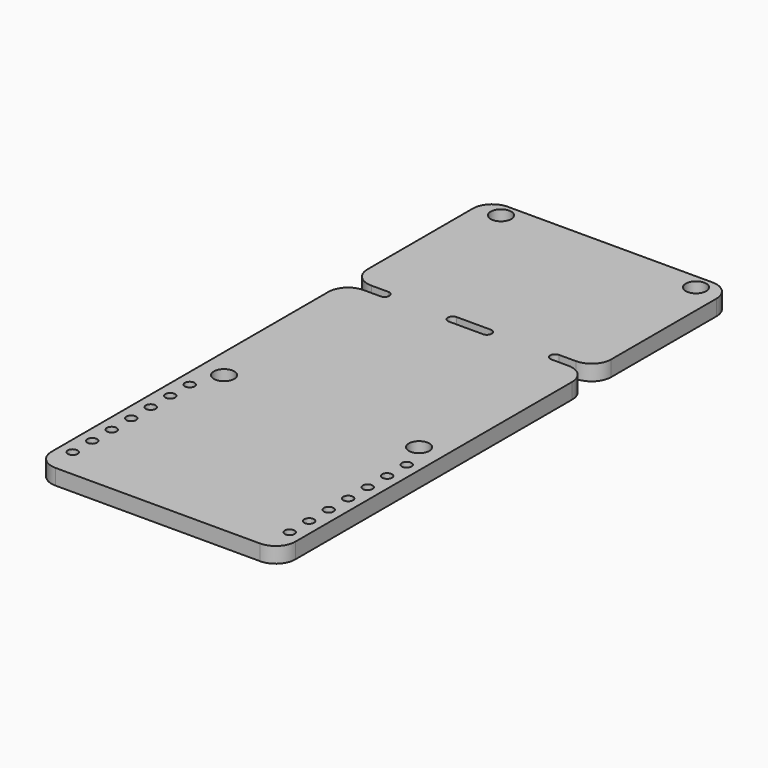
from build123d import *

# Parameters (mm, degrees)
PAD_DEPTH       = 1.6
SKETCH001_R     = 0.5
POCKET_DEPTH    = 1.601
SKETCH002_R     = 1.05
POCKET001_DEPTH = 1.601
POCKET002_DEPTH = 1.601


with BuildPart() as part:
    # Sketch → Pad (new body)
    with BuildSketch(Plane.XY):
        with BuildLine():
            Line((-10.5, 0), (10.5, 0))
            ThreePointArc((10.5, 0), (11.914214, 0.585786), (12.5, 2))
            Line((12.5, 2), (12.5, 56))
            ThreePointArc((12.5, 56), (11.914214, 57.414214), (10.5, 58))
            Line((10.5, 58), (-10.5, 58))
            ThreePointArc((-10.5, 58), (-11.914214, 57.414214), (-12.5, 56))
            Line((-12.5, 56), (-12.5, 2))
            ThreePointArc((-12.5, 2), (-11.914214, 0.585786), (-10.5, 0))
        make_face()
    extrude(amount=-PAD_DEPTH)

    # Sketch001 → Pocket (cut, through all)
    with BuildSketch(Plane.XY):
        with Locations((-11.125, 3)):
            Circle(SKETCH001_R)
        with Locations((11.125, 3)):
            Circle(SKETCH001_R)
        with Locations((-11.125, 5.5)):
            Circle(SKETCH001_R)
        with Locations((-11.125, 8)):
            Circle(SKETCH001_R)
        with Locations((-11.125, 10.5)):
            Circle(SKETCH001_R)
        with Locations((-11.125, 13)):
            Circle(SKETCH001_R)
        with Locations((-11.125, 15.5)):
            Circle(SKETCH001_R)
        with Locations((-11.125, 18)):
            Circle(SKETCH001_R)
        with Locations((11.125, 18)):
            Circle(SKETCH001_R)
        with Locations((11.125, 15.5)):
            Circle(SKETCH001_R)
        with Locations((11.125, 13)):
            Circle(SKETCH001_R)
        with Locations((11.125, 10.5)):
            Circle(SKETCH001_R)
        with Locations((11.125, 8)):
            Circle(SKETCH001_R)
        with Locations((11.125, 5.5)):
            Circle(SKETCH001_R)
    extrude(amount=-POCKET_DEPTH, mode=Mode.SUBTRACT)

    # Sketch002 → Pocket001 (cut, through all)
    with BuildSketch(Plane.XY):
        with Locations((-10, 21)):
            Circle(SKETCH002_R)
        with Locations((10, 21)):
            Circle(SKETCH002_R)
        with Locations((10, 56.5)):
            Circle(SKETCH002_R)
        with Locations((-10, 56.5)):
            Circle(SKETCH002_R)
    extrude(amount=-POCKET001_DEPTH, mode=Mode.SUBTRACT)

    # Sketch003 → Pocket002 (cut, through all)
    with BuildSketch(Plane.XY):
        with BuildLine():
            ThreePointArc((-1.75, 40.500236), (-2.250118, 40.000118), (-1.75, 39.5))
            Line((-1.75, 39.5), (1.75, 39.5))
            ThreePointArc((1.75, 39.5), (2.250118, 40.000118), (1.75, 40.500236))
            Line((-1.75, 40.500236), (1.75, 40.500236))
        make_face()
        with BuildLine():
            ThreePointArc((8.75, 40.500236), (8.249882, 40.000118), (8.75, 39.5))
            Line((8.75, 39.5), (10.5, 39.5))
            ThreePointArc((12.5, 37.500001), (11.914213, 38.914214), (10.5, 39.5))
            Line((12.5, 35.000118), (12.5, 37.500001))
            Line((22.5, 35.000118), (12.5, 35.000118))
            Line((22.5, 45.000118), (22.5, 35.000118))
            Line((12.5, 45.000118), (22.5, 45.000118))
            Line((12.5, 42.500236), (12.5, 45.000118))
            ThreePointArc((10.5, 40.500236), (11.914214, 41.086022), (12.5, 42.500236))
            Line((8.75, 40.500236), (10.5, 40.500236))
        make_face()
        with BuildLine():
            ThreePointArc((-8.75, 39.500118), (-8.25, 40.000118), (-8.75, 40.500118))
            Line((-10.5, 40.500118), (-8.75, 40.500118))
            ThreePointArc((-12.5, 42.500118), (-11.914214, 41.085904), (-10.5, 40.500118))
            Line((-12.5, 42.500118), (-12.5, 45.000118))
            Line((-12.5, 45.000118), (-22.5, 45.000118))
            Line((-22.5, 45.000118), (-22.5, 35.000118))
            Line((-22.5, 35.000118), (-12.5, 35.000118))
            Line((-12.5, 35.000118), (-12.5, 37.500118))
            ThreePointArc((-10.5, 39.500118), (-11.914214, 38.914331), (-12.5, 37.500118))
            Line((-10.5, 39.500118), (-8.75, 39.500118))
        make_face()
    extrude(amount=-POCKET002_DEPTH, mode=Mode.SUBTRACT)


solid = part.part
